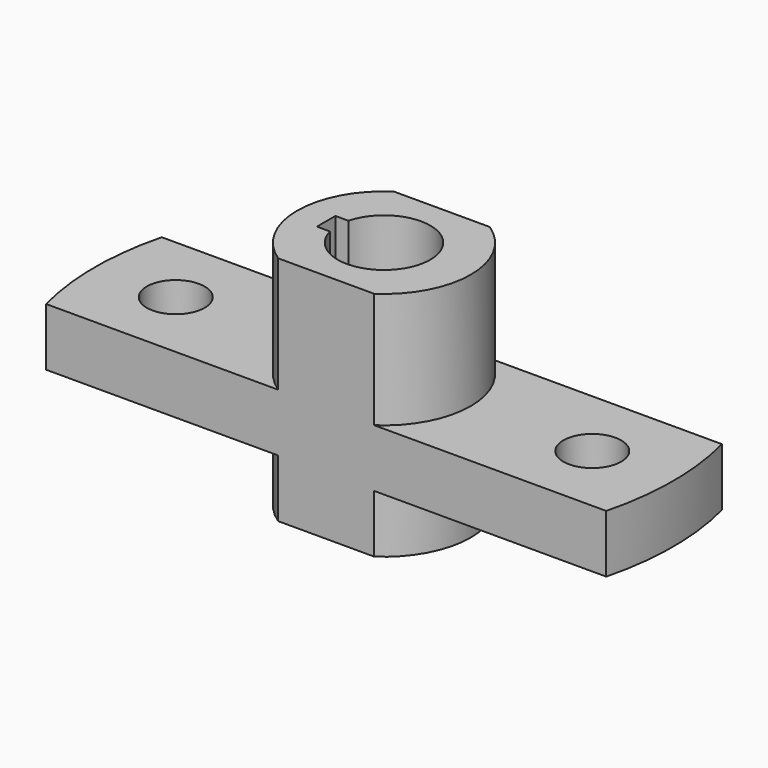
from build123d import *

# Parameters (mm, degrees)
F1_DEPTH      = 20
F1_DEPTH_BACK = 20
F0_R          = 5
F2_DEPTH      = 10
F5_W          = 4.235981
F5_H          = 4
F6_DEPTH      = 45.001


with BuildPart() as f1:
    # F0 (on Top) → F1 (new body, two sides)
    with BuildSketch(Plane.XY) as f1_sk:
        with BuildLine():
            ThreePointArc((0, 8), (8, 0), (0, -8))
            Line((0, -8), (0, -12.5))
            Line((0, -12.5), (8.291562, -12.5))
            ThreePointArc((8.291562, -12.5), (15, 0), (8.291562, 12.5))
            Line((8.291562, 12.5), (0, 12.5))
            Line((0, 12.5), (0, 8))
        make_face()
    extrude(amount=F1_DEPTH)
    extrude(f1_sk.sketch, amount=-F1_DEPTH_BACK)

    # F0 (on Top) → F2 (join)
    with BuildSketch(Plane.XY):
        with BuildLine():
            ThreePointArc((8.291562, 12.5), (15, 0), (8.291562, -12.5))
            Line((8.291562, -12.5), (48.412292, -12.5))
            ThreePointArc((48.412292, -12.5), (50, 0), (48.412292, 12.5))
            Line((48.412292, 12.5), (8.291562, 12.5))
        make_face()
        with Locations((36, 0)):
            Circle(F0_R, mode=Mode.SUBTRACT)
    extrude(amount=-F2_DEPTH)

    # F3: F1 across plane


with BuildPart() as f1_1:
    add(f1.part)
    add(f1.part.mirror(Plane.YZ))

    # F5 (on offset) → F6 (cut, through all)
    with BuildSketch(Plane.XY.offset(25)):
        with Locations((-7.882009, 0)):
            Rectangle(F5_W, F5_H)
    extrude(amount=-F6_DEPTH, mode=Mode.SUBTRACT)


solid = f1_1.part
